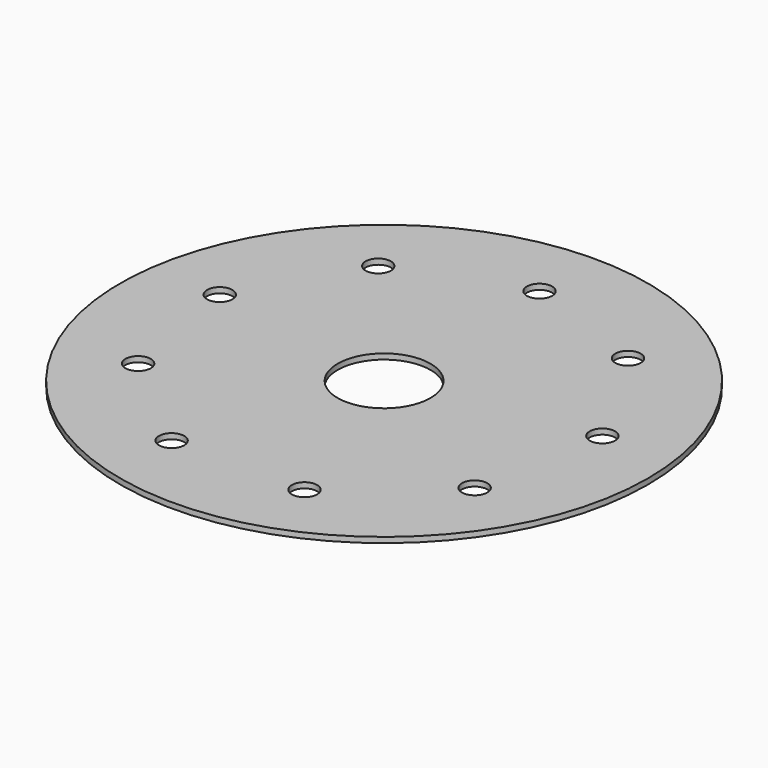
from build123d import *

# Parameters (mm, degrees)
SKETCH_R   = 62.5
SKETCH_R_2 = 11
SKETCH_R_3 = 3
PAD_DEPTH  = 1.3


with BuildPart() as part:
    # Sketch → Pad (new body)
    with BuildSketch(Plane.XY):
        Circle(SKETCH_R)
        Circle(SKETCH_R_2, mode=Mode.SUBTRACT)
        with Locations((0, 46)):
            Circle(SKETCH_R_3, mode=Mode.SUBTRACT)
        with Locations((29.56823, 35.238044)):
            Circle(SKETCH_R_3, mode=Mode.SUBTRACT)
        with Locations((45.301157, 7.987816)):
            Circle(SKETCH_R_3, mode=Mode.SUBTRACT)
        with Locations((39.837169, -23)):
            Circle(SKETCH_R_3, mode=Mode.SUBTRACT)
        with Locations((15.732927, -43.225861)):
            Circle(SKETCH_R_3, mode=Mode.SUBTRACT)
        with Locations((-15.732927, -43.225861)):
            Circle(SKETCH_R_3, mode=Mode.SUBTRACT)
        with Locations((-39.837169, -23)):
            Circle(SKETCH_R_3, mode=Mode.SUBTRACT)
        with Locations((-45.301157, 7.987816)):
            Circle(SKETCH_R_3, mode=Mode.SUBTRACT)
        with Locations((-29.56823, 35.238044)):
            Circle(SKETCH_R_3, mode=Mode.SUBTRACT)
    extrude(amount=PAD_DEPTH)


solid = part.part
